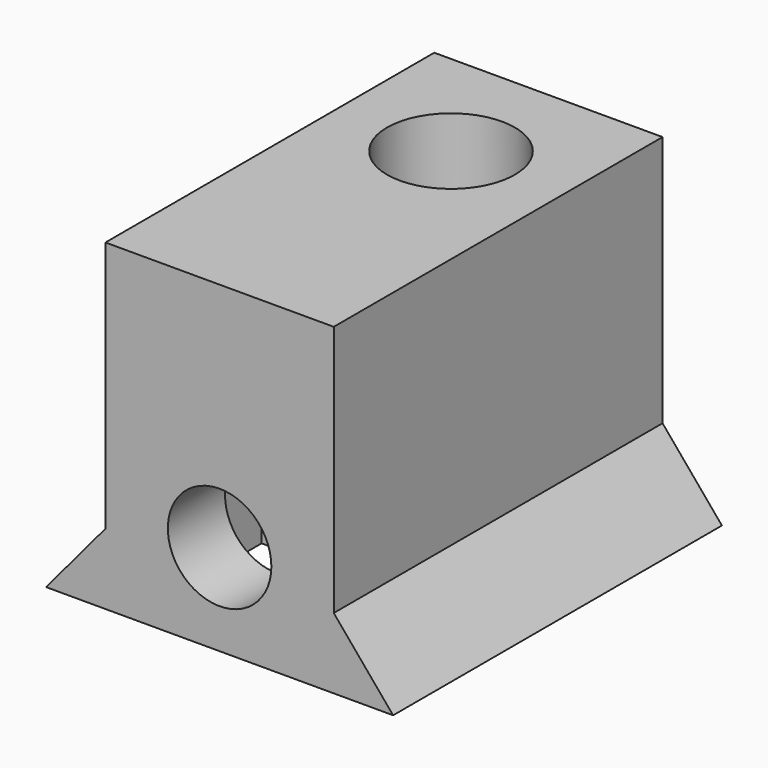
from build123d import *

# Parameters (mm, degrees)
SKETCH_R        = 1.7
PAD_DEPTH       = 13.5
SKETCH001_R     = 2.1
POCKET_DEPTH    = 5.1
POCKET001_DEPTH = 1.5


with BuildPart() as part:
    # Sketch → Pad (new body)
    with BuildSketch(Plane.XZ):
        Polygon((-5.7, 0), (5.7, 0), (3.75, 2.32392), (3.75, 10.6), (-3.75, 10.6), (-3.75, 2.32392), align=None)
        with Locations((0, 3)):
            Circle(SKETCH_R, mode=Mode.SUBTRACT)
    extrude(amount=PAD_DEPTH)

    # Sketch001 (on Face4 of Pad) → Pocket (cut)
    with BuildSketch(Plane(origin=(0, 0, 10.6), x_dir=(-1, 0, 0), z_dir=(0, 0, 1))):
        with Locations((0, 4)):
            Circle(SKETCH001_R)
    extrude(amount=-POCKET_DEPTH, mode=Mode.SUBTRACT)

    # Sketch002 (on DatumPlane) → Pocket001 (cut, symmetric)
    with BuildSketch(Plane.XZ.offset(9.65)):
        Polygon((0, 6.35), (-2.901185, 4.675), (-2.901185, -5.325), (2.901185, -5.325), (2.901185, 4.675), align=None)
    extrude(amount=POCKET001_DEPTH, both=True, mode=Mode.SUBTRACT)


solid = part.part
